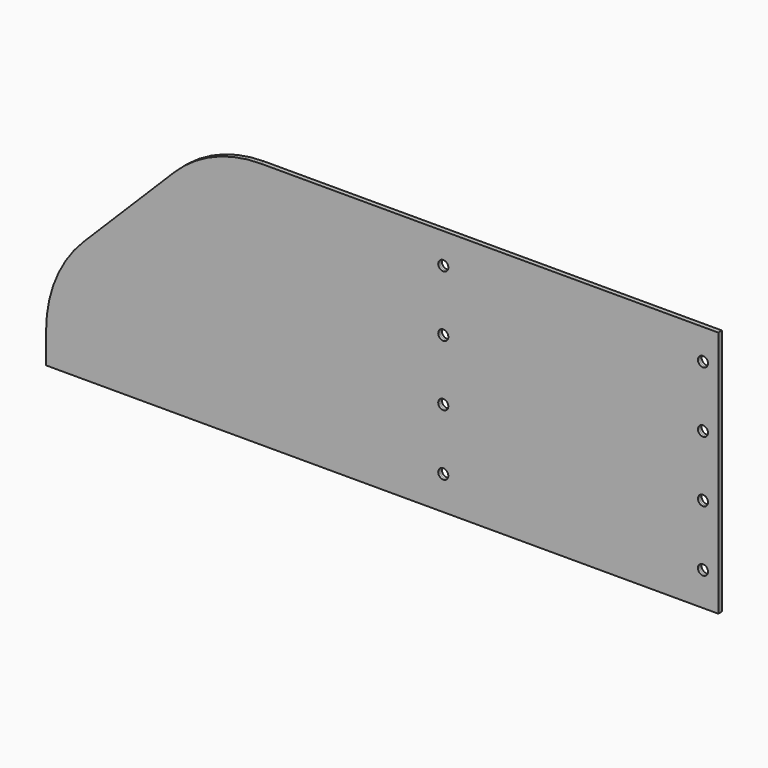
from build123d import *

# Parameters (mm, degrees)
SKETCH_R       = 1.65
PAD_DEPTH      = 0.75
PAD_DEPTH_BACK = 0.75


with BuildPart() as part:
    # Sketch → Pad (new body, two sides)
    with BuildSketch(Plane.XZ) as pad_sk:
        with BuildLine():
            Line((-110, -41), (-110, -31))
            ThreePointArc((-97.745166, -1.414214), (-106.815072, -14.988288), (-110, -31))
            Line((-97.745166, -1.414214), (-68.046681, 28.284271))
            ThreePointArc((-39.76241, 40), (-55.069747, 36.955181), (-68.046681, 28.284271))
            Line((-39.76241, 40), (110, 40))
            Line((110, 40), (110, -41))
            Line((110, -41), (-110, -41))
        make_face()
        with Locations((105, 30)):
            Circle(SKETCH_R, mode=Mode.SUBTRACT)
        with Locations((20, 30)):
            Circle(SKETCH_R, mode=Mode.SUBTRACT)
        with Locations((20, 10)):
            Circle(SKETCH_R, mode=Mode.SUBTRACT)
        with Locations((105, 10)):
            Circle(SKETCH_R, mode=Mode.SUBTRACT)
        with Locations((105, -30)):
            Circle(SKETCH_R, mode=Mode.SUBTRACT)
        with Locations((20, -30)):
            Circle(SKETCH_R, mode=Mode.SUBTRACT)
        with Locations((20, -10)):
            Circle(SKETCH_R, mode=Mode.SUBTRACT)
        with Locations((105, -10)):
            Circle(SKETCH_R, mode=Mode.SUBTRACT)
    extrude(amount=PAD_DEPTH)
    extrude(pad_sk.sketch, amount=-PAD_DEPTH_BACK)


solid = part.part
